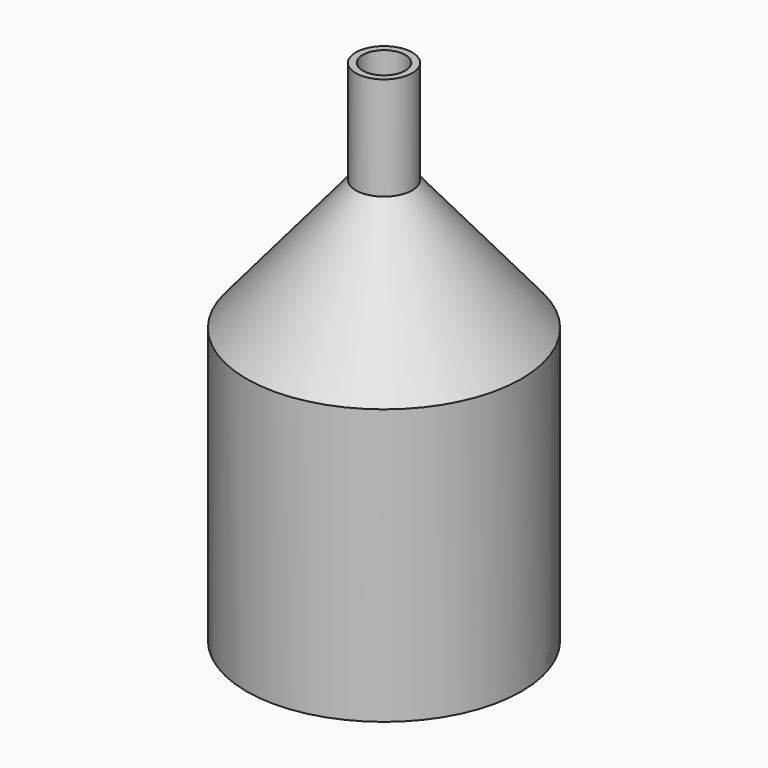
from build123d import *

# Parameters (mm, degrees)
F3_DEPTH = 1


with BuildPart() as f1:
    # F0 (on Front) → F1 (revolve)
    with BuildSketch(Plane.XZ):
        Polygon((0, 0), (0, -1), (20, -1), (20, 39), (4.1, 57.948882), (4.1, 72.948882), (3.1, 72.948882), (3.1, 57.584912), (19, 38.63603), (19, 0), align=None)
    revolve(axis=Axis((0, 0, -0.5), (0, 0, -1)))

    # F2 (on Top) → F3 (join)
    with BuildSketch(Plane.XY):
        with BuildLine():
            Line((0, -0.850651), (11.347522, -16.469175))
            ThreePointArc((11.347522, -16.469175), (11.755705, -16.18034), (12.156539, -15.88139))
            Line((12.156539, -15.88139), (0.809017, -0.262866))
            Line((0.809017, -0.262866), (19.169694, 5.70288))
            ThreePointArc((19.169694, 5.70288), (19.02113, 6.18034), (18.860677, 6.653936))
            Line((18.860677, 6.653936), (0.5, 0.688191))
            Line((0.5, 0.688191), (0.5, 19.993749))
            ThreePointArc((0.5, 19.993749), (0, 20), (-0.5, 19.993749))
            Line((-0.5, 19.993749), (-0.5, 0.688191))
            Line((-0.5, 0.688191), (-18.860677, 6.653936))
            ThreePointArc((-18.860677, 6.653936), (-19.02113, 6.18034), (-19.169694, 5.70288))
            Line((-19.169694, 5.70288), (-0.809017, -0.262866))
            Line((-0.809017, -0.262866), (-12.156539, -15.88139))
            ThreePointArc((-12.156539, -15.88139), (-11.755705, -16.18034), (-11.347522, -16.469175))
            Line((-11.347522, -16.469175), (0, -0.850651))
        make_face()
    extrude(amount=F3_DEPTH)


solid = f1.part
